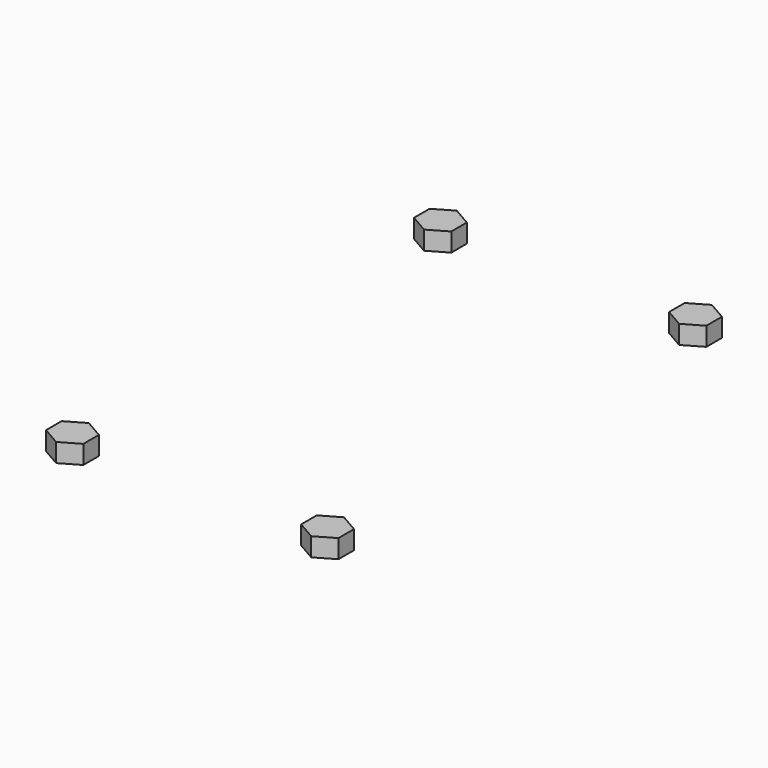
from build123d import *

# Parameters (mm, degrees)
EXTRUDE003_DEPTH = 2.5
EXTRUDE004_DEPTH = 2.5
EXTRUDE002_DEPTH = 2.5
EXTRUDE001_DEPTH = 2.5


with BuildPart() as extrude003:
    # Sketch003 (on Face4 of Fusion004) → Extrude003 (new body)
    with BuildSketch(Plane(origin=(0, 0, -2), x_dir=(1, 0, 0), z_dir=(0, 0, -1))):
        Polygon((42.5, -39.306624), (42.5, -36.693376), (40, -35.25), (37.5, -36.693376), (37.5, -39.306624), (40, -40.75), align=None)
    extrude(amount=EXTRUDE003_DEPTH)


with BuildPart() as extrude003_1:
    # Extrude003 placement: moved
    add(extrude003.part.moved(Location((34.25, 61.75, 0))))


with BuildPart() as extrude004:
    # Sketch004 (on Face4 of Fusion004) → Extrude004 (new body)
    with BuildSketch(Plane(origin=(0, 0, -2), x_dir=(1, 0, 0), z_dir=(0, 0, -1))):
        Polygon((42.5, -39.306624), (42.5, -36.693376), (40, -35.25), (37.5, -36.693376), (37.5, -39.306624), (40, -40.75), align=None)
    extrude(amount=EXTRUDE004_DEPTH)


with BuildPart() as extrude004_1:
    # Extrude004 placement: moved
    add(extrude004.part.moved(Location((0, 61.75, 0))))


with BuildPart() as extrude002:
    # Sketch002 (on Face4 of Fusion004) → Extrude002 (new body)
    with BuildSketch(Plane(origin=(0, 0, -2), x_dir=(1, 0, 0), z_dir=(0, 0, -1))):
        Polygon((42.5, -39.306624), (42.5, -36.693376), (40, -35.25), (37.5, -36.693376), (37.5, -39.306624), (40, -40.75), align=None)
    extrude(amount=EXTRUDE002_DEPTH)


with BuildPart() as extrude002_1:
    # Extrude002 placement: moved
    add(extrude002.part.moved(Location((34.25, 0, 0))))


with BuildPart() as nut_negatives:
    # Sketch (on Face4 of Fusion004) → Extrude001 (new body)
    with BuildSketch(Plane(origin=(0, 0, -2), x_dir=(1, 0, 0), z_dir=(0, 0, -1))):
        Polygon((42.5, -39.306624), (42.5, -36.693376), (40, -35.25), (37.5, -36.693376), (37.5, -39.306624), (40, -40.75), align=None)
    extrude(amount=EXTRUDE001_DEPTH)

    # Fusion005: union Extrude003, Extrude004, Extrude002
    add(extrude003_1.part)
    add(extrude004_1.part)
    add(extrude002_1.part)


solid = nut_negatives.part
